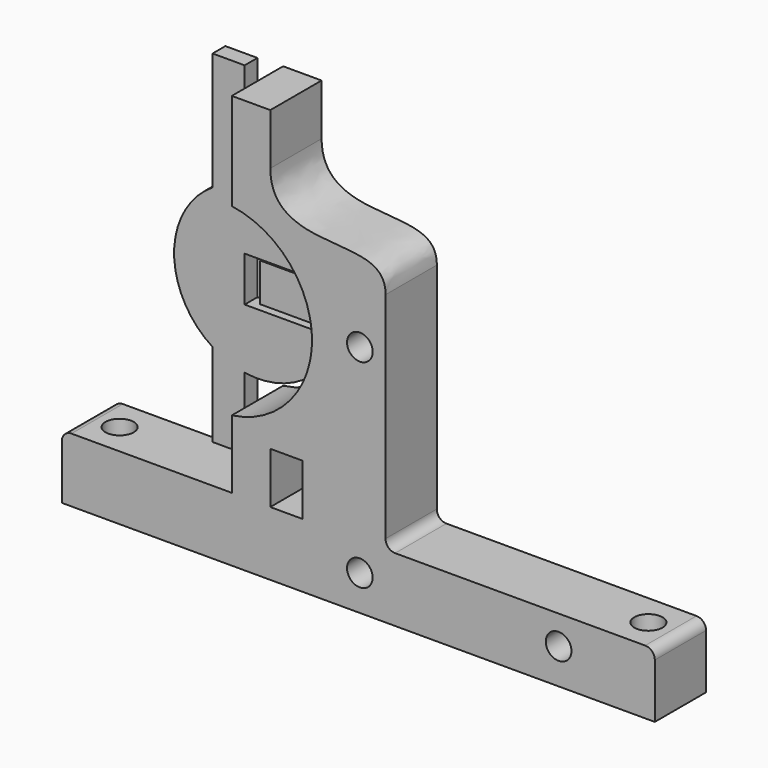
from build123d import *

# Parameters (mm, degrees)
F1_DEPTH = 10
F2_D     = 4
F0_W     = 2
F0_H     = 6
F3_DEPTH = 2
F5_DEPTH = 2.5
F7_D     = 4.4
F8_R     = 1.5


with BuildPart() as f1:
    # F0 (on Front) → F1 (new body)
    with BuildSketch(Plane.XZ):
        Polygon((-30.4699879904, 0), (0, 0), (52, 0), (52, 10), (10, 10), (0, 10), (-2.9699879904, 10), (-7.9699879904, 10), (-13.9699879904, 10), (-30.4699879904, 10), (-40.4699879904, 10), (-40.4699879904, 0), align=None)
        with BuildLine():
            Line((0, 10), (10, 10))
            Line((10, 10), (10, 45))
            add(Edge.make_bspline(
                [(-7.9699879904, 56.5), (-7.9173985869, 50.464976579), (1.67252567, 49.2066189983), (10.0459149107, 49.04044047), (10, 45)],
                knots=[0, 0, 0, 0, 0.5367611097, 1, 1, 1, 1], degree=3))
            Line((-7.9699879904, 56.5), (-7.9699879904, 64.5))
            Line((-7.9699879904, 64.5), (-13.9699879904, 64.5))
            Line((-13.9699879904, 64.5), (-13.9699879904, 49.3614066163))
            ThreePointArc((-13.9699879904, 49.3614066163), (-6.0821595617, 45.6056988909), (-1.7837270313, 38))
            Line((-1.7837270313, 38), (0, 38))
            Line((0, 38), (0, 32))
            Line((0, 32), (-1.7837270313, 32))
            ThreePointArc((-1.7837270313, 32), (-6.0821595617, 24.3943011091), (-13.9699879904, 20.6385933837))
            Line((-13.9699879904, 20.6385933837), (-13.9699879904, 10))
            Line((-13.9699879904, 10), (-7.9699879904, 10))
            Line((-7.9699879904, 10), (-7.9699879904, 18))
            Line((-7.9699879904, 18), (-2.9699879904, 18))
            Line((-2.9699879904, 18), (-2.9699879904, 10))
            Line((-2.9699879904, 10), (0, 10))
        make_face()
        Polygon((-30.4699879904, 0), (0, 0), (52, 0), (52, 10), (10, 10), (0, 10), (-2.9699879904, 10), (-7.9699879904, 10), (-13.9699879904, 10), (-30.4699879904, 10), (-40.4699879904, 10), (-40.4699879904, 0), align=None)
        Polygon((-30.4699879904, 0), (0, 0), (52, 0), (52, 10), (10, 10), (0, 10), (-2.9699879904, 10), (-7.9699879904, 10), (-13.9699879904, 10), (-30.4699879904, 10), (-40.4699879904, 10), (-40.4699879904, 0), align=None)
        with BuildLine():
            Line((0, 10), (10, 10))
            Line((10, 10), (10, 45))
            add(Edge.make_bspline(
                [(-7.9699879904, 56.5), (-7.9173985869, 50.464976579), (1.67252567, 49.2066189983), (10.0459149107, 49.04044047), (10, 45)],
                knots=[0, 0, 0, 0, 0.5367611097, 1, 1, 1, 1], degree=3))
            Line((-7.9699879904, 56.5), (-7.9699879904, 64.5))
            Line((-7.9699879904, 64.5), (-13.9699879904, 64.5))
            Line((-13.9699879904, 64.5), (-13.9699879904, 49.3614066163))
            ThreePointArc((-13.9699879904, 49.3614066163), (-6.0821595617, 45.6056988909), (-1.7837270313, 38))
            Line((-1.7837270313, 38), (0, 38))
            Line((0, 38), (0, 32))
            Line((0, 32), (-1.7837270313, 32))
            ThreePointArc((-1.7837270313, 32), (-6.0821595617, 24.3943011091), (-13.9699879904, 20.6385933837))
            Line((-13.9699879904, 20.6385933837), (-13.9699879904, 10))
            Line((-13.9699879904, 10), (-7.9699879904, 10))
            Line((-7.9699879904, 10), (-7.9699879904, 18))
            Line((-7.9699879904, 18), (-2.9699879904, 18))
            Line((-2.9699879904, 18), (-2.9699879904, 10))
            Line((-2.9699879904, 10), (0, 10))
        make_face()
        with BuildLine():
            Line((0, 10), (10, 10))
            Line((10, 10), (10, 45))
            add(Edge.make_bspline(
                [(-7.9699879904, 56.5), (-7.9173985869, 50.464976579), (1.67252567, 49.2066189983), (10.0459149107, 49.04044047), (10, 45)],
                knots=[0, 0, 0, 0, 0.5367611097, 1, 1, 1, 1], degree=3))
            Line((-7.9699879904, 56.5), (-7.9699879904, 64.5))
            Line((-7.9699879904, 64.5), (-13.9699879904, 64.5))
            Line((-13.9699879904, 64.5), (-13.9699879904, 49.3614066163))
            ThreePointArc((-13.9699879904, 49.3614066163), (-6.0821595617, 45.6056988909), (-1.7837270313, 38))
            Line((-1.7837270313, 38), (0, 38))
            Line((0, 38), (0, 32))
            Line((0, 32), (-1.7837270313, 32))
            ThreePointArc((-1.7837270313, 32), (-6.0821595617, 24.3943011091), (-13.9699879904, 20.6385933837))
            Line((-13.9699879904, 20.6385933837), (-13.9699879904, 10))
            Line((-13.9699879904, 10), (-7.9699879904, 10))
            Line((-7.9699879904, 10), (-7.9699879904, 18))
            Line((-7.9699879904, 18), (-2.9699879904, 18))
            Line((-2.9699879904, 18), (-2.9699879904, 10))
            Line((-2.9699879904, 10), (0, 10))
        make_face()
        with BuildLine():
            ThreePointArc((-1.4699879904, 35), (-1.5486360443, 33.491819624), (-1.7837270313, 32))
            Line((-1.7837270313, 32), (0, 32))
            Line((0, 32), (0, 38))
            Line((0, 38), (-1.7837270313, 38))
            ThreePointArc((-1.7837270313, 38), (-1.5486360443, 36.508180376), (-1.4699879904, 35))
        make_face()
        with BuildLine():
            Line((0, 10), (10, 10))
            Line((10, 10), (10, 45))
            add(Edge.make_bspline(
                [(-7.9699879904, 56.5), (-7.9173985869, 50.464976579), (1.67252567, 49.2066189983), (10.0459149107, 49.04044047), (10, 45)],
                knots=[0, 0, 0, 0, 0.5367611097, 1, 1, 1, 1], degree=3))
            Line((-7.9699879904, 56.5), (-7.9699879904, 64.5))
            Line((-7.9699879904, 64.5), (-13.9699879904, 64.5))
            Line((-13.9699879904, 64.5), (-13.9699879904, 49.3614066163))
            ThreePointArc((-13.9699879904, 49.3614066163), (-6.0821595617, 45.6056988909), (-1.7837270313, 38))
            Line((-1.7837270313, 38), (0, 38))
            Line((0, 38), (0, 32))
            Line((0, 32), (-1.7837270313, 32))
            ThreePointArc((-1.7837270313, 32), (-6.0821595617, 24.3943011091), (-13.9699879904, 20.6385933837))
            Line((-13.9699879904, 20.6385933837), (-13.9699879904, 10))
            Line((-13.9699879904, 10), (-7.9699879904, 10))
            Line((-7.9699879904, 10), (-7.9699879904, 18))
            Line((-7.9699879904, 18), (-2.9699879904, 18))
            Line((-2.9699879904, 18), (-2.9699879904, 10))
            Line((-2.9699879904, 10), (0, 10))
        make_face()
    extrude(amount=F1_DEPTH)

    # F2 (through all)
    with Locations(Plane(origin=(0, 0, 0), x_dir=(1, 0, 0), z_dir=(0, 1, 0))):
        with Locations((6, -36.5), (6, -5.5), (37, -5.5)):
            Hole(F2_D / 2)

    # F0 (on Front) → F3 (join)
    with BuildSketch(Plane.XZ):
        with BuildLine():
            Line((-13.9699879904, 32), (-1.7837270313, 32))
            ThreePointArc((-1.7837270313, 32), (-1.5486360443, 33.491819624), (-1.4699879904, 35))
            ThreePointArc((-1.4699879904, 35), (-1.5486360443, 36.508180376), (-1.7837270313, 38))
            Line((-1.7837270313, 38), (-13.9699879904, 38))
            Line((-13.9699879904, 38), (-13.9699879904, 32))
        make_face()
        with Locations((-14.9699879904, 35)):
            Rectangle(F0_W, F0_H)
    extrude(amount=F3_DEPTH)

    # F7 (through all)
    with Locations(Plane.XY.offset(10)):
        with Locations((47, -5), (-35.4699879904, -5)):
            Hole(F7_D / 2)

    # F8
    f8_edges = [f1.edges().sort_by_distance(p)[0] for p in [
        (-40.469988, -5, 10),
        (10, -5, 45),
        (10, -5, 10),
        (52, -5, 10),
    ]]
    fillet(f8_edges, radius=F8_R)


with BuildPart() as f5:
    # F4 (on Front) → F5 (new body)
    with BuildSketch(Plane.XZ):
        with BuildLine():
            Line((-17.9699879904, 38.5), (-3.4500039648, 38.5))
            ThreePointArc((-3.4500039648, 38.5), (-8.9343033072, 45.9315662665), (-17.9699879904, 47.8452325787))
            ThreePointArc((-17.9699879904, 47.8452325787), (-20.5682228259, 47.1596149773), (-22.9699879904, 45.9544511501))
            ThreePointArc((-22.9699879904, 45.9544511501), (-28.9699879904, 35), (-22.9699879904, 24.0455488499))
            ThreePointArc((-22.9699879904, 24.0455488499), (-20.5682228259, 22.8403850227), (-17.9699879904, 22.1547674213))
            ThreePointArc((-17.9699879904, 22.1547674213), (-8.9343033072, 24.0684337335), (-3.4500039648, 31.5))
            Line((-3.4500039648, 31.5), (-17.9699879904, 31.5))
            Line((-17.9699879904, 31.5), (-17.9699879904, 38.5))
        make_face()
        with BuildLine():
            ThreePointArc((-22.9699879904, 45.9544511501), (-20.5682228259, 47.1596149773), (-17.9699879904, 47.8452325787))
            Line((-17.9699879904, 47.8452325787), (-17.9699879904, 64.3452325787))
            Line((-17.9699879904, 64.3452325787), (-22.9699879904, 64.3452325787))
            Line((-22.9699879904, 64.3452325787), (-22.9699879904, 45.9544511501))
        make_face()
        with BuildLine():
            Line((-17.9699879904, 11), (-17.9699879904, 22.1547674213))
            ThreePointArc((-17.9699879904, 22.1547674213), (-20.5682228259, 22.8403850227), (-22.9699879904, 24.0455488499))
            Line((-22.9699879904, 24.0455488499), (-22.9699879904, 11))
            Line((-22.9699879904, 11), (-17.9699879904, 11))
        make_face()
    extrude(amount=F5_DEPTH)


solid = Compound([f1.part, f5.part])
